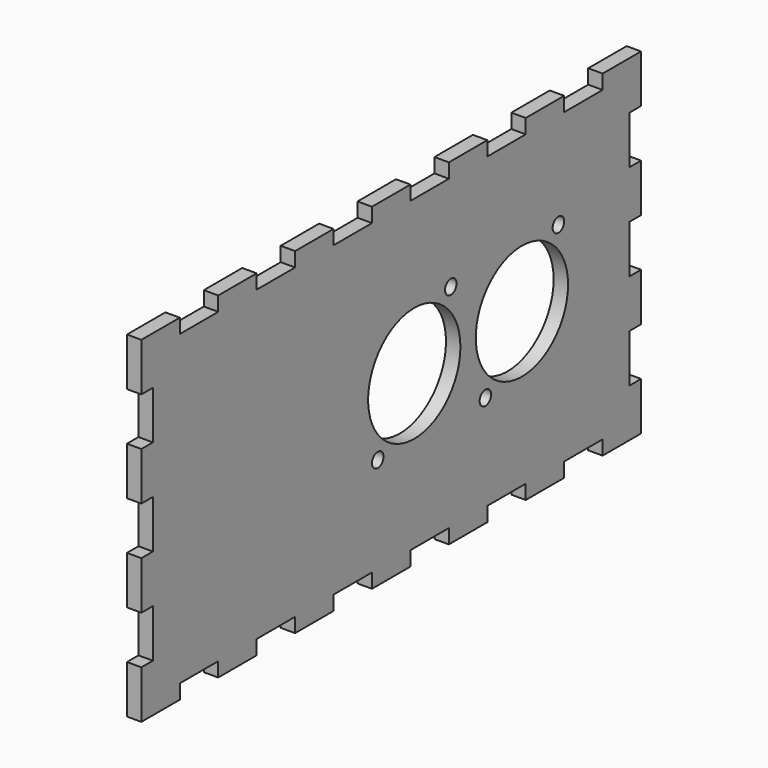
from build123d import *

# Parameters (mm, degrees)
F0_W     = 130
F0_H     = 70
F1_DEPTH = 3
F2_W     = 3
F2_H     = 10
F2_W_2   = 10
F2_H_2   = 3
F3_DEPTH = 3.001
F4_R     = 12
F4_R_2   = 1.5
F5_DEPTH = 3.001


with BuildPart() as f1:
    # F0 (on Right) → F1 (new body)
    with BuildSketch(Plane.YZ):
        Rectangle(F0_W, F0_H)
    extrude(amount=F1_DEPTH)

    # F2 (on face) → F3 (cut, through all)
    with BuildSketch(Plane.YZ.offset(3)):
        with Locations((-63.5, 20)):
            Rectangle(F2_W, F2_H)
        with Locations((-63.5, 0)):
            Rectangle(F2_W, F2_H)
        with Locations((-63.5, -20)):
            Rectangle(F2_W, F2_H)
        with Locations((63.5, 0)):
            Rectangle(F2_W, F2_H)
        with Locations((63.5, 20)):
            Rectangle(F2_W, F2_H)
        with Locations((63.5, -20)):
            Rectangle(F2_W, F2_H)
        with Locations((-50, -33.5)):
            Rectangle(F2_W_2, F2_H_2)
        with Locations((-30, -33.5)):
            Rectangle(F2_W_2, F2_H_2)
        with Locations((-10, -33.5)):
            Rectangle(F2_W_2, F2_H_2)
        with Locations((10, -33.5)):
            Rectangle(F2_W_2, F2_H_2)
        with Locations((30, -33.5)):
            Rectangle(F2_W_2, F2_H_2)
        with Locations((50, -33.5)):
            Rectangle(F2_W_2, F2_H_2)
        with Locations((-50, 33.5)):
            Rectangle(F2_W_2, F2_H_2)
        with Locations((-30, 33.5)):
            Rectangle(F2_W_2, F2_H_2)
        with Locations((50, 33.5)):
            Rectangle(F2_W_2, F2_H_2)
        with Locations((-10, 33.5)):
            Rectangle(F2_W_2, F2_H_2)
        with Locations((10, 33.5)):
            Rectangle(F2_W_2, F2_H_2)
        with Locations((30, 33.5)):
            Rectangle(F2_W_2, F2_H_2)
    extrude(amount=-F3_DEPTH, mode=Mode.SUBTRACT)

    # F4 (on face) → F5 (cut, through all)
    with BuildSketch(Plane.YZ.offset(3)):
        with Locations((34, 0)):
            Circle(F4_R)
        with Locations((43.5, 12)):
            Circle(F4_R_2)
        with Locations((24.5, -12)):
            Circle(F4_R_2)
        with Locations((6, 0)):
            Circle(F4_R)
        with Locations((-3.5, -12)):
            Circle(F4_R_2)
        with Locations((15.5, 12)):
            Circle(F4_R_2)
    extrude(amount=-F5_DEPTH, mode=Mode.SUBTRACT)


solid = f1.part
